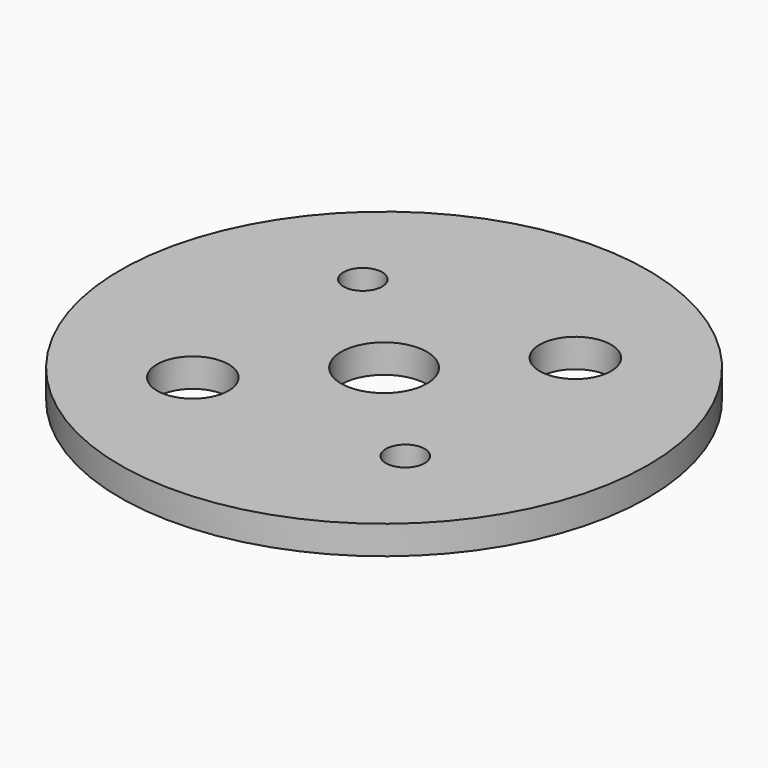
from build123d import *

# Parameters (mm, degrees)
F0_R     = 29.27858
F0_R_2   = 3.96875
F0_R_3   = 2.15265
F0_R_4   = 4.7625
F1_DEPTH = 3.175


with BuildPart() as f1:
    # F0 (on Top) → F1 (new body)
    with BuildSketch(Plane.XY):
        Circle(F0_R)
        with Locations((-11.786591, -11.786591)):
            Circle(F0_R_2, mode=Mode.SUBTRACT)
        with Locations((11.786591, -11.786591)):
            Circle(F0_R_3, mode=Mode.SUBTRACT)
        with Locations((-11.786591, 11.786591)):
            Circle(F0_R_3, mode=Mode.SUBTRACT)
        Circle(F0_R_4, mode=Mode.SUBTRACT)
        with Locations((11.786591, 11.786591)):
            Circle(F0_R_2, mode=Mode.SUBTRACT)
    extrude(amount=F1_DEPTH)


solid = f1.part
